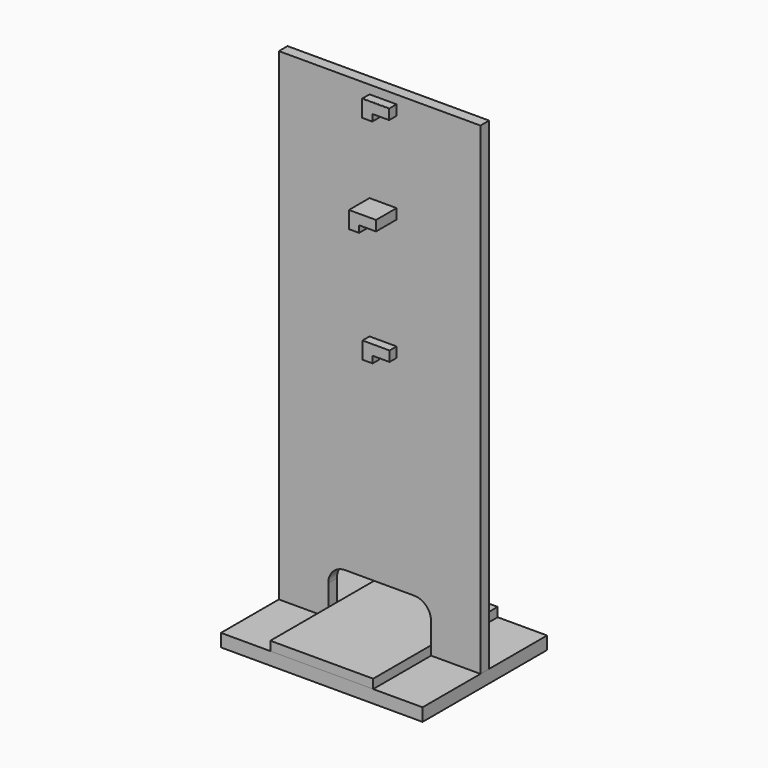
from build123d import *

# Parameters (mm, degrees)
F1_DEPTH      = 115
F1_DEPTH_BACK = 115
F2_DEPTH      = 115
F2_DEPTH_BACK = 115
F3_DEPTH      = 8
F3_DEPTH_BACK = 8
F4_DEPTH      = 21
F4_DEPTH_BACK = 8
F5_DEPTH      = 21
F5_DEPTH_BACK = 8
F6_DEPTH      = 21
F6_DEPTH_BACK = 8
F9_DEPTH      = 0.5
F11_DEPTH     = 25


with BuildPart() as f1:
    # F0 (on Front) → F1 (new body, two sides)
    with BuildSketch(Plane.XZ) as f1_sk:
        Polygon((76, -13.5), (76, 0), (0, 0), (-76, 0), (-76, -13.5), align=None)
    extrude(amount=F1_DEPTH)
    extrude(f1_sk.sketch, amount=-F1_DEPTH_BACK)


with BuildPart() as f2:
    # F0 (on Front) → F2 (new body, two sides)
    with BuildSketch(Plane.XZ) as f2_sk:
        Polygon((149, -13.5), (76, -13.5), (-76, -13.5), (-149, -13.5), (-149, -32.5), (149, -32.5), align=None)
    extrude(amount=F2_DEPTH)
    extrude(f2_sk.sketch, amount=-F2_DEPTH_BACK)


with BuildPart() as f3:
    # F0 (on Front) → F3 (new body, two sides)
    with BuildSketch(Plane.XZ) as f3_sk:
        with BuildLine():
            Line((76, 31.5), (76, 0))
            Line((76, 0), (76, -13.5))
            Line((76, -13.5), (149, -13.5))
            Line((149, -13.5), (149, 700))
            Line((149, 700), (-149, 700))
            Line((-149, 700), (-149, -13.5))
            Line((-149, -13.5), (-76, -13.5))
            Line((-76, -13.5), (-76, 0))
            Line((-76, 0), (-76, 31.5))
            ThreePointArc((-76, 31.5), (-68.6776695297, 49.1776695297), (-51, 56.5))
            Line((-51, 56.5), (51, 56.5))
            ThreePointArc((51, 56.5), (61.5710197798, 54.1550996647), (70.1590005334, 47.5602832653))
            ThreePointArc((70.1590005334, 47.5602832653), (74.4944143717, 40.044734831), (76, 31.5))
        make_face()
        Polygon((25, 357.3), (0, 357.3), (0, 347.3), (-15, 347.3), (-15, 372.3), (25, 372.3), align=None, mode=Mode.SUBTRACT)
        Polygon((25, 537.3), (0, 537.3), (0, 527.3), (-15, 527.3), (-15, 552.3), (25, 552.3), align=None, mode=Mode.SUBTRACT)
        Polygon((25, 672.3), (0, 672.3), (0, 662.3), (-15, 662.3), (-15, 687.3), (25, 687.3), align=None, mode=Mode.SUBTRACT)
    extrude(amount=F3_DEPTH)
    extrude(f3_sk.sketch, amount=-F3_DEPTH_BACK)

    # F0 (on Front) → F4 (join, two sides)
    with BuildSketch(Plane.XZ) as f4_sk:
        Polygon((0, 662.3), (0, 672.3), (25, 672.3), (25, 687.3), (-15, 687.3), (-15, 662.3), align=None)
    extrude(amount=F4_DEPTH)
    extrude(f4_sk.sketch, amount=-F4_DEPTH_BACK)

    # F0 (on Front) → F5 (join, two sides)
    with BuildSketch(Plane.XZ) as f5_sk:
        Polygon((0, 527.3), (0, 537.3), (25, 537.3), (25, 552.3), (-15, 552.3), (-15, 527.3), align=None)
    extrude(amount=F5_DEPTH)
    extrude(f5_sk.sketch, amount=-F5_DEPTH_BACK)

    # F0 (on Front) → F6 (join, two sides)
    with BuildSketch(Plane.XZ) as f6_sk:
        Polygon((0, 347.3), (0, 357.3), (25, 357.3), (25, 372.3), (-15, 372.3), (-15, 347.3), align=None)
    extrude(amount=F6_DEPTH)
    extrude(f6_sk.sketch, amount=-F6_DEPTH_BACK)

    # F11 (add): a face of the model
    f11_faces = [f3.faces().sort_by_distance(p)[0] for p in [
        (2.5, -21, 542.3),
    ]]
    extrude(f11_faces, amount=F11_DEPTH)


with BuildPart() as f9:
    # F8 (on offset) → F9 (new body)
    with BuildSketch(Plane.XZ.offset(21.2)):
        Polygon((25, 687.3), (-15, 687.3), (-15, 662.3), (0, 662.3), (0, 672.3), (25, 672.3), align=None)
    extrude(amount=F9_DEPTH)


solid = Compound([f1.part, f2.part, f3.part, f9.part])
